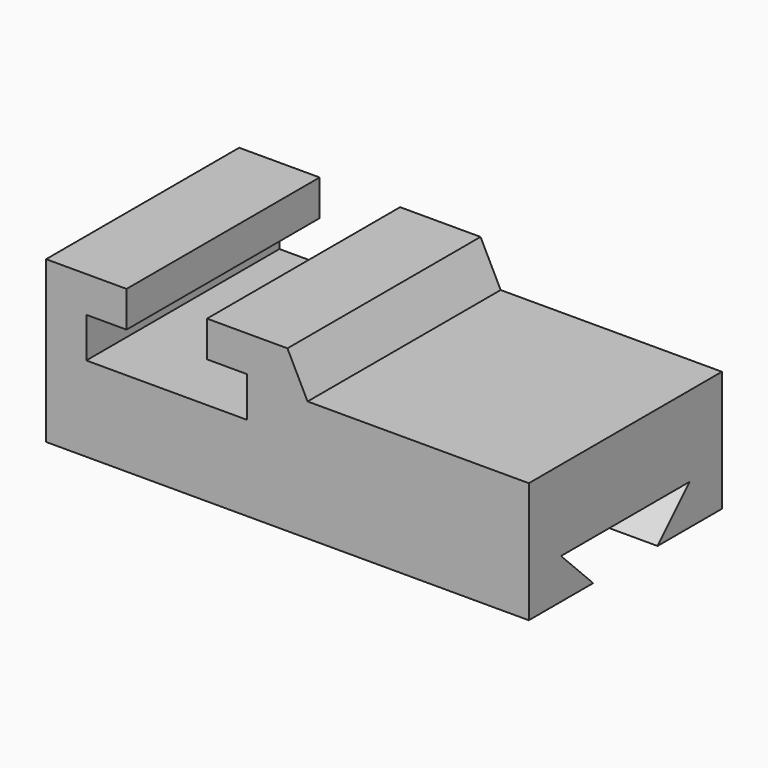
from build123d import *

# Parameters (mm, degrees)
F1_DEPTH = 76.2
F3_DEPTH = 152.4


with BuildPart() as f1:
    # F0 (on Front) → F1 (new body)
    with BuildSketch(Plane.XZ):
        Polygon((25.4, 63.161494), (0, 63.161494), (0, 12.361494), (152.4, 12.361494), (152.4, 50.461494), (82.55, 50.461494), (76.2, 63.161494), (50.8, 63.161494), (50.8, 51.839417), (63.5, 51.839417), (63.5, 39.139417), (12.7, 39.139417), (12.7, 51.839417), (25.4, 51.839417), align=None)
    extrude(amount=F1_DEPTH)

    # F2 (on face) → F3 (cut)
    with BuildSketch(Plane.YZ.offset(152.4)):
        Polygon((-63.5, 25.061494), (-50.8, 12.361494), (-25.4, 12.361494), (-12.7, 25.061494), align=None)
    extrude(amount=-F3_DEPTH, mode=Mode.SUBTRACT)


solid = f1.part
